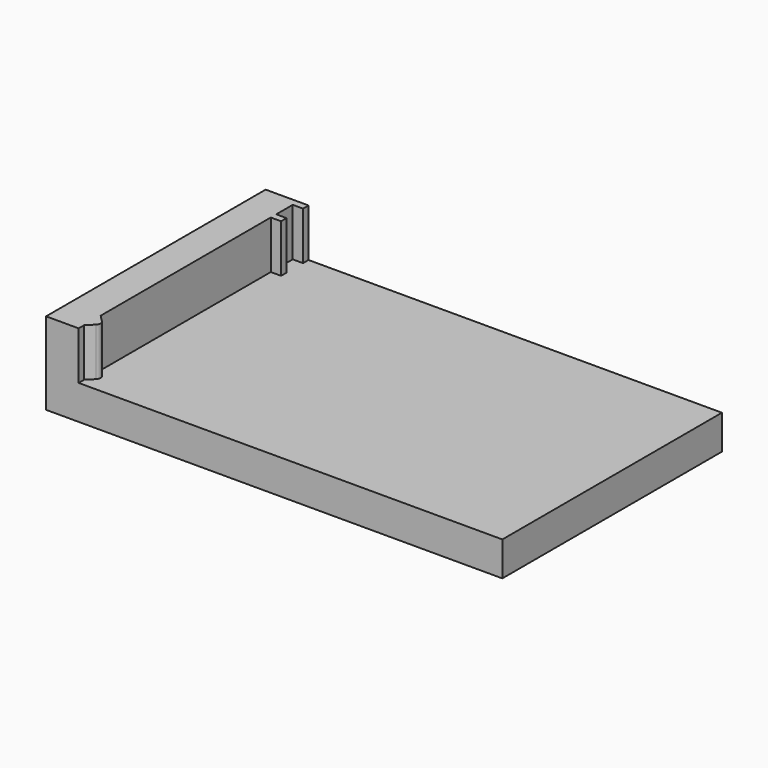
from build123d import *

# Parameters (mm, degrees)
SKETCH_W     = 133
SKETCH_H     = 80
PAD_DEPTH    = 10
PAD001_DEPTH = 24


with BuildPart() as part:
    # Sketch → Pad (new body)
    with BuildSketch(Plane.XY):
        Rectangle(SKETCH_W, SKETCH_H)
    extrude(amount=PAD_DEPTH)

    # Sketch001 → Pad001 (join)
    with BuildSketch(Plane.XY):
        with BuildLine():
            Line((-66.5, -40), (-66.5, 40))
            Line((-66.5, 40), (-54, 40))
            Line((-54, 40), (-54, 38))
            Line((-54, 38), (-57, 38))
            Line((-57, 38), (-57, 32))
            Line((-57, 32), (-54, 32))
            Line((-54, 32), (-54, 30))
            Line((-54, 30), (-57, 30))
            Line((-57, 30), (-57, -32))
            Line((-57, -32), (-55.06066, -33.93934))
            ThreePointArc((-55.06066, -36.06066), (-54.62132, -35), (-55.06066, -33.93934))
            Line((-55.06066, -36.06066), (-57, -38))
            Line((-57, -38), (-57, -40))
            Line((-57, -40), (-66.5, -40))
        make_face()
    extrude(amount=PAD001_DEPTH)


solid = part.part
